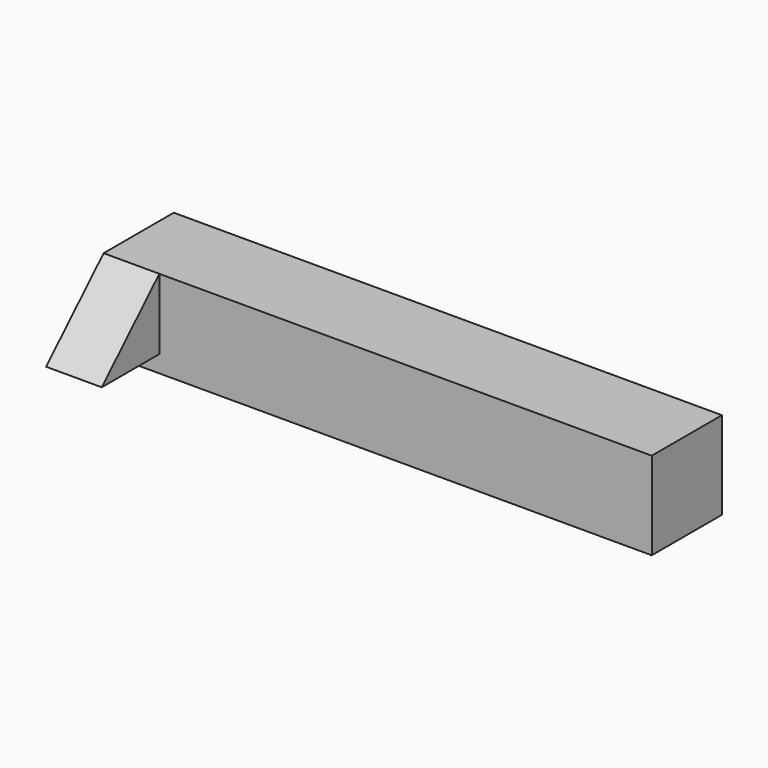
from build123d import *

# Parameters (mm, degrees)
F0_W          = 250
F0_H          = 40
F1_DEPTH      = 20
F1_DEPTH_BACK = 20
F3_DEPTH      = 25.4


with BuildPart() as f1:
    # F0 (on Front) → F1 (new body, two sides)
    with BuildSketch(Plane.XZ) as f1_sk:
        Rectangle(F0_W, F0_H)
    extrude(amount=F1_DEPTH)
    extrude(f1_sk.sketch, amount=-F1_DEPTH_BACK)


with BuildPart() as f3:
    # F2 (on face) → F3 (new body)
    with BuildSketch(Plane(origin=(-125, 0, 0), x_dir=(0, -1, 0), z_dir=(-1, 0, 0))):
        Polygon((20, 20), (20, -12.256252), (52.795339, -12.256252), align=None)
    extrude(amount=-F3_DEPTH)


solid = Compound([f1.part, f3.part])
